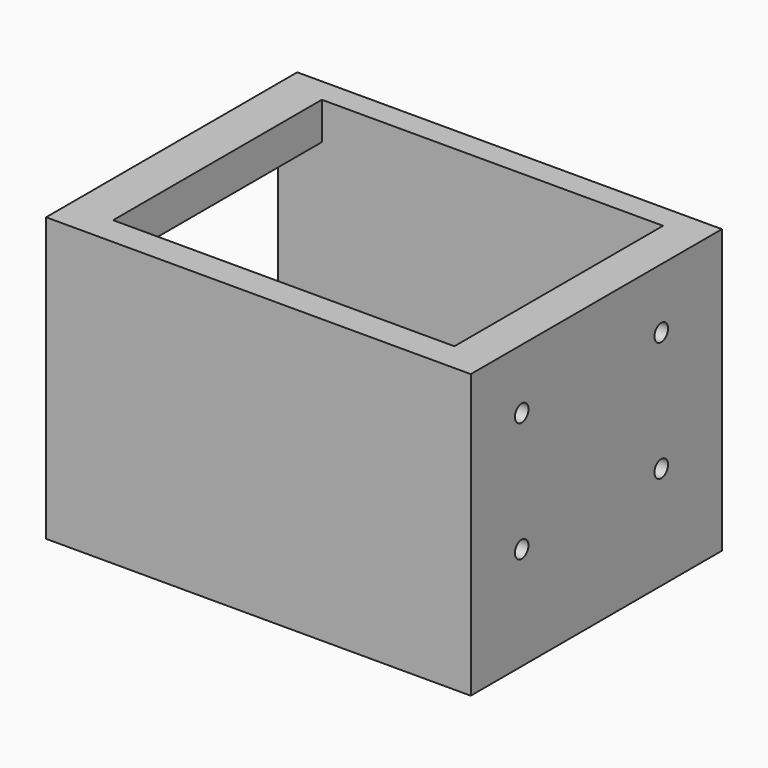
from build123d import *

# Parameters (mm, degrees)
F0_W      = 76.2000009418
F0_H      = 56.3335753977
F1_DEPTH  = 50.8
F2_W      = 61.2327515673
F2_H      = 46.8085720204
F3_DEPTH  = 43.18
F4_W      = 46.8085720204
F4_H      = 21.59
F5_DEPTH  = 25.4
F6_W      = 46.8085720204
F6_H      = 9.227910161
F7_DEPTH  = 25.4
F9_DEPTH  = 5.08
F10_R     = 1.524
F11_DEPTH = 25.4
F12_W     = 46.8085720204
F12_H     = 5.665987947
F13_DEPTH = 25.4


with BuildPart() as f1:
    # F0 (on Top) → F1 (new body)
    with BuildSketch(Plane.XY):
        with Locations((38.1000004709, -28.1667876989)):
            Rectangle(F0_W, F0_H)
    extrude(amount=F1_DEPTH)

    # F2 (on face) → F3 (cut)
    with BuildSketch(Plane.XY.offset(50.8)):
        with Locations((38.5085178336, -27.7585715521)):
            Rectangle(F2_W, F2_H)
    extrude(amount=-F3_DEPTH, mode=Mode.SUBTRACT)

    # F4 (on face) → F5 (cut)
    with BuildSketch(Plane.YZ.offset(7.89214205)):
        with Locations((-27.7585715521, 18.415)):
            Rectangle(F4_W, F4_H)
    extrude(amount=-F5_DEPTH, mode=Mode.SUBTRACT)

    # F6 (on face) → F7 (cut)
    with BuildSketch(Plane(origin=(0, 0, 0), x_dir=(0, -1, 0), z_dir=(-1, 0, 0))):
        with Locations((27.7585715521, 33.8239550805)):
            Rectangle(F6_W, F6_H)
    extrude(amount=-F7_DEPTH, mode=Mode.SUBTRACT)

    # F8 (on face) → F9 (cut)
    with BuildSketch(Plane.XY.offset(7.62)):
        Polygon((26.1257160455, -9.5250001177), (26.1257160455, -16.6007149965), (26.1257160455, -37.2835732996), (33.4735698998, -37.2835732996), (33.4735698998, -27.7585722506), (40.821429342, -37.2835732996), (46.1298863749, -33.1884770438), (37.9123979826, -22.5361794362), (46.1298863749, -16.1969728194), (42.6624452598, -11.7021426558), (33.4735698998, -17.097555101), (33.4735698998, -9.5250001177), align=None)
    extrude(amount=-F9_DEPTH, mode=Mode.SUBTRACT)

    # F10 (on face) → F11 (cut)
    with BuildSketch(Plane.YZ.offset(76.2000009418)):
        with Locations((-44.9035726488, 18.5057148337)):
            Circle(F10_R)
        with Locations((-13.6071434245, 40.0050021708)):
            Circle(F10_R)
        with Locations((-44.9035726488, 40.0050021708)):
            Circle(F10_R)
        with Locations((-13.6071434245, 18.5057148337)):
            Circle(F10_R)
    extrude(amount=-F11_DEPTH, mode=Mode.SUBTRACT)

    # F12 (on face) → F13 (cut)
    with BuildSketch(Plane(origin=(0, 0, 0), x_dir=(0, -1, 0), z_dir=(-1, 0, 0))):
        with Locations((27.7585715521, 41.2709041345)):
            Rectangle(F12_W, F12_H)
    extrude(amount=-F13_DEPTH, mode=Mode.SUBTRACT)


solid = f1.part
